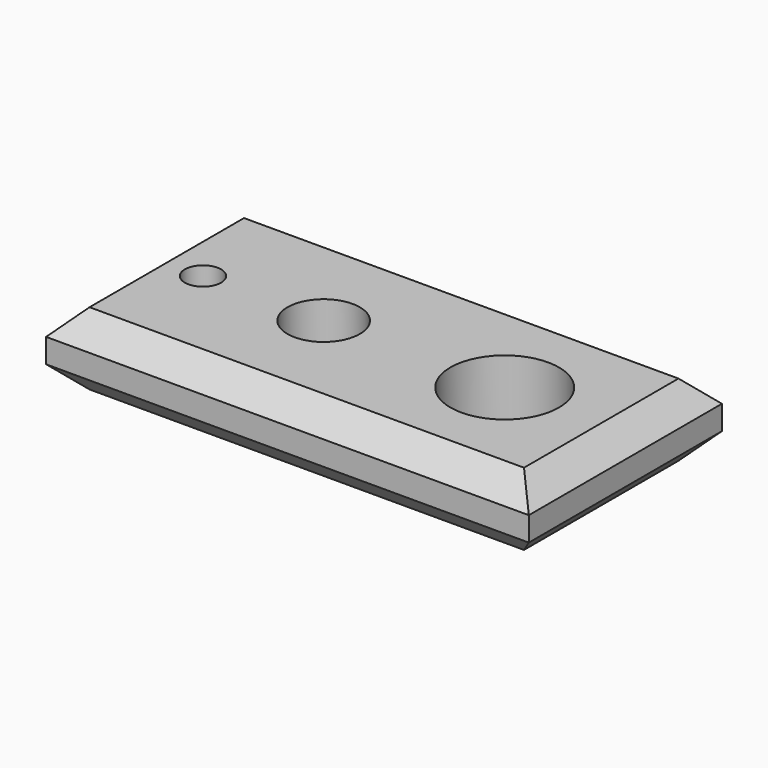
from build123d import *

# Parameters (mm, degrees)
F1_DEPTH = 762
F2_SIZE  = 254
F3_SIZE  = 127


with BuildPart() as f1:
    # F0 (on Top) → F1 (new body)
    with BuildSketch(Plane.XY):
        with BuildLine():
            Line((-3145.280514, 0), (-3145.280514, -1270))
            Line((-3145.280514, -1270), (1934.719486, -1270))
            Line((1934.719486, -1270), (1934.719486, 0))
            Line((1934.719486, 0), (1236.219486, 0))
            ThreePointArc((1236.219486, 0), (664.719486, -571.5), (93.219486, 0))
            Line((93.219486, 0), (-859.280514, 0))
            ThreePointArc((-859.280514, 0), (-1240.280514, -381), (-1621.280514, 0))
            Line((-1621.280514, 0), (-2319.780514, 0))
            ThreePointArc((-2319.780514, 0), (-2510.280514, -190.5), (-2700.780514, 0))
            Line((-2700.780514, 0), (-3145.280514, 0))
        make_face()
        with BuildLine():
            Line((-3145.280514, 1270), (-3145.280514, 0))
            Line((-3145.280514, 0), (-2700.780514, 0))
            ThreePointArc((-2700.780514, 0), (-2510.280514, 190.5), (-2319.780514, 0))
            Line((-2319.780514, 0), (-1621.280514, 0))
            ThreePointArc((-1621.280514, 0), (-1240.280514, 381), (-859.280514, 0))
            Line((-859.280514, 0), (93.219486, 0))
            ThreePointArc((93.219486, 0), (664.719486, 571.5), (1236.219486, 0))
            Line((1236.219486, 0), (1934.719486, 0))
            Line((1934.719486, 0), (1934.719486, 1270))
            Line((1934.719486, 1270), (-3145.280514, 1270))
        make_face()
    extrude(amount=F1_DEPTH)

    # F2
    f2_edges = [f1.edges().sort_by_distance(p)[0] for p in [
        (-3145.280514, 0, 0),
        (-605.280514, 1270, 0),
        (1934.719486, 0, 0),
        (1934.719486, 0, 762),
        (-605.280514, -1270, 762),
        (-3145.280514, 0, 762),
        (-605.280514, 1270, 762),
        (-605.280514, -1270, 0),
    ]]
    chamfer(f2_edges, length=F2_SIZE)

    # F3
    f3_edges = [f1.edges().sort_by_distance(p)[0] for p in [
        (-2700.780514, 0, 0),
        (-1621.280514, 0, 0),
        (93.219486, 0, 0),
    ]]
    chamfer(f3_edges, length=F3_SIZE)


solid = f1.part
